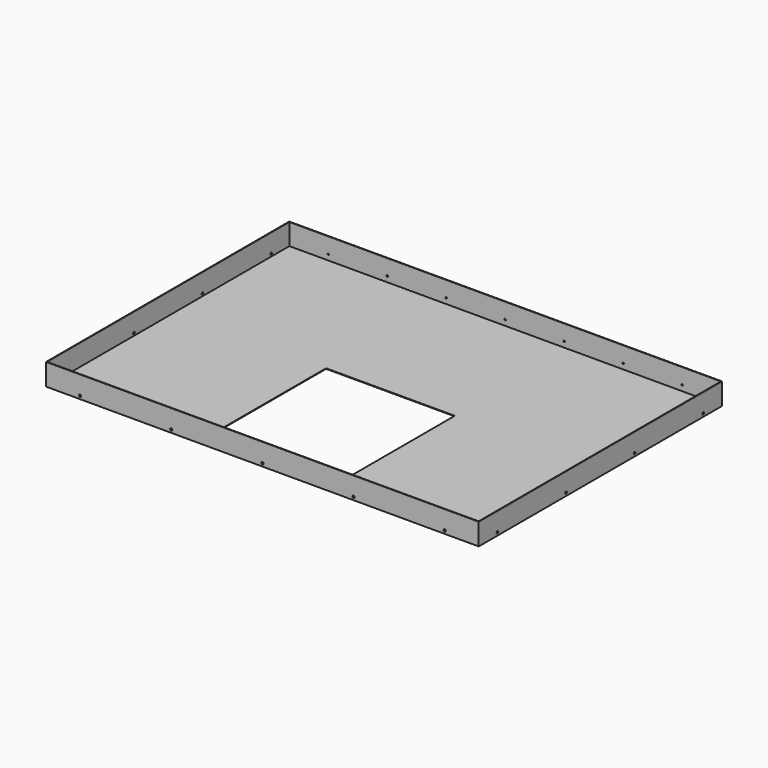
from build123d import *

# Parameters (mm, degrees)
F1_DEPTH  = 51.562
F2_T      = -1.27
F4_D      = 5.2197
F4_DEPTH  = 0.762
F4_TIP    = 1.5681560866
F6_D      = 5.2197
F7_W      = 304.8
F7_H      = 304.8
F8_DEPTH  = 25.4
F10_D     = 5.2197
F10_DEPTH = 0.762
F10_TIP   = 1.5681560866


with BuildPart() as f1:
    # F0 (on Top) → F1 (new body)
    with BuildSketch(Plane.XY):
        Polygon((512.445, 360.045), (0, 360.045), (0, 0), (0, -360.045), (512.445, -360.045), align=None)
        Polygon((0, 0), (0, 360.045), (-512.445, 360.045), (-512.445, -360.045), (0, -360.045), align=None)
    extrude(amount=F1_DEPTH)

    # F2
    f2_openings = [f1.faces().sort_by_distance(p)[0] for p in [
        (0, 0, 51.562),
    ]]
    offset(amount=F2_T, openings=f2_openings)

    # F4
    with Locations(Plane.XZ.offset(360.045)):
        with Locations((-431.8, 7.112), (-215.9, 7.112), (0, 7.112), (215.9, 7.112), (431.8, 7.112)):
            Hole(F4_D / 2, depth=F4_DEPTH)
            with Locations((0, 0, -(F4_DEPTH + F4_TIP / 2))):  # 118° drill point
                Cone(0, F4_D / 2, F4_TIP, mode=Mode.SUBTRACT)

    # F6 (through all)
    with Locations(Plane(origin=(-512.445, 0, 0), x_dir=(0, -1, 0), z_dir=(-1, 0, 0))):
        with Locations((-304.8, 7.112), (-101.6, 7.112), (101.6, 7.112), (304.8, 7.112)):
            Hole(F6_D / 2)

    # F7 (on face) → F8 (cut)
    with BuildSketch(Plane(origin=(0, 0, 0), x_dir=(1, 0, 0), z_dir=(0, 0, -1))):
        with Locations((0, 133.35)):
            Rectangle(F7_W, F7_H)
    extrude(amount=-F8_DEPTH, mode=Mode.SUBTRACT)

    # F10
    with Locations(Plane(origin=(0, 360.045, 0), x_dir=(-1, 0, 0), z_dir=(0, 1, 0))):
        with Locations((-419.1, 14.2875), (-279.4, 14.2875), (-139.7, 14.2875), (0, 14.2875), (139.7, 14.2875), (279.4, 14.2875), (419.1, 14.2875)):
            Hole(F10_D / 2, depth=F10_DEPTH)
            with Locations((0, 0, -(F10_DEPTH + F10_TIP / 2))):  # 118° drill point
                Cone(0, F10_D / 2, F10_TIP, mode=Mode.SUBTRACT)


solid = f1.part
